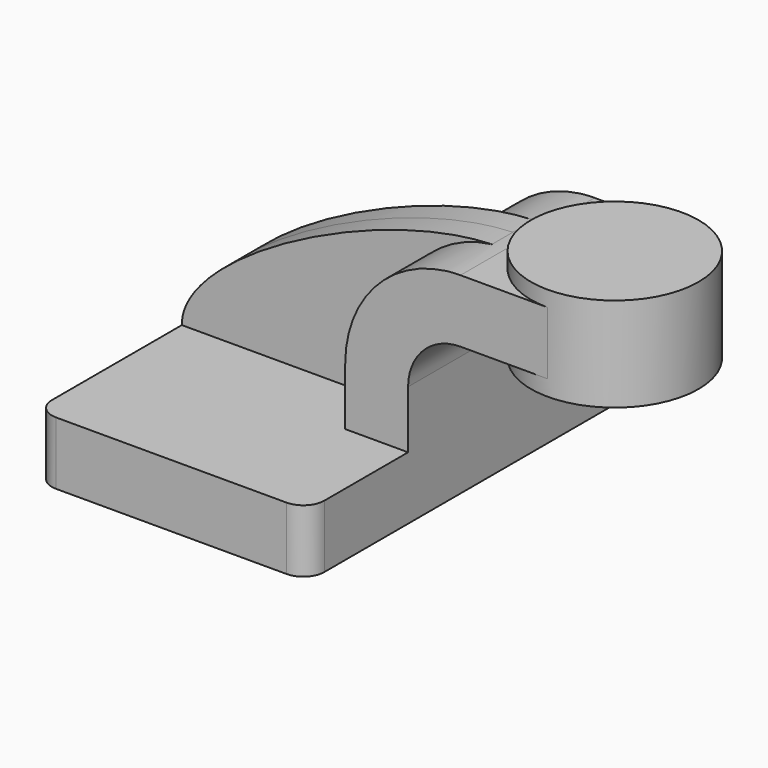
from build123d import *

# Parameters (mm, degrees)
F1_DEPTH = 63.5
F0_W     = 25.4
F0_H     = 19.05
F2_DEPTH = 25.4
F3_DEPTH = 7.9375
F5_R     = 6.35


with BuildPart() as f1:
    # F0 (on Front) → F1 (new body, symmetric)
    with BuildSketch(Plane.XZ):
        Polygon((-41.275, 9.525), (-41.275, -9.525), (41.275, -9.525), (41.275, 9.525), (22.225, 9.525), align=None)
    extrude(amount=F1_DEPTH, both=True)

    # F0 (on Front) → F2 (join, symmetric)
    with BuildSketch(Plane.XZ):
        with BuildLine():
            Line((22.225, 9.525), (41.275, 9.525))
            Line((41.275, 9.525), (41.275, 27.00782))
            ThreePointArc((41.275, 27.00782), (45.9246798487, 38.2331401513), (57.15, 42.88282))
            Line((57.15, 42.88282), (58.1977560132, 42.88282))
            Line((58.1977560132, 42.88282), (58.1977560132, 61.93282))
            Line((58.1977560132, 61.93282), (57.15, 61.93282))
            ThreePointArc((57.15, 61.93282), (54.9328944769, 61.862375916), (52.724732803, 61.6513278368))
            ThreePointArc((52.724732803, 61.6513278368), (30.9363768066, 50.0859824934), (22.225, 27.00782))
            Line((22.225, 27.00782), (22.225, 9.525))
        make_face()
        with Locations((70.8977560132, 52.40782)):
            Rectangle(F0_W, F0_H)
    extrude(amount=F2_DEPTH, both=True)

    # F0 (on Front) → F3 (join, symmetric)
    with BuildSketch(Plane.XZ):
        with BuildLine():
            add(Edge.make_bspline(
                [(-41.275, 9.525), (-41.5120311081, 29.9139209092), (17.1590354294, 60.4301430285), (52.724732803, 61.6513278368)],
                knots=[0, 0, 0, 0, 107.4853656122, 107.4853656122, 107.4853656122, 107.4853656122], degree=3))
            Line((-41.275, 9.525), (22.225, 9.525))
            Line((22.225, 9.525), (22.225, 27.00782))
            ThreePointArc((22.225, 27.00782), (30.9363768066, 50.0859824934), (52.724732803, 61.6513278368))
        make_face()
    extrude(amount=F3_DEPTH, both=True)

    # F0 (on Front) → F4 (revolve)
    with BuildSketch(Plane.XZ):
        Polygon((83.5977560132, 66.675), (83.5977560132, 61.93282), (83.5977560132, 42.88282), (83.5977560132, 38.1), (108.9977560132, 38.1), (108.9977560132, 66.675), align=None)
    revolve(axis=Axis((83.5977560132, 0, 52.3875), (0, 0, 1)))

    # F5
    f5_edges = [f1.edges().sort_by_distance(p)[0] for p in [
        (41.275, -63.5, 0),
        (-41.275, -63.5, 0),
        (41.275, 63.5, 0),
        (-41.275, 63.5, 0),
    ]]
    fillet(f5_edges, radius=F5_R)


solid = f1.part
